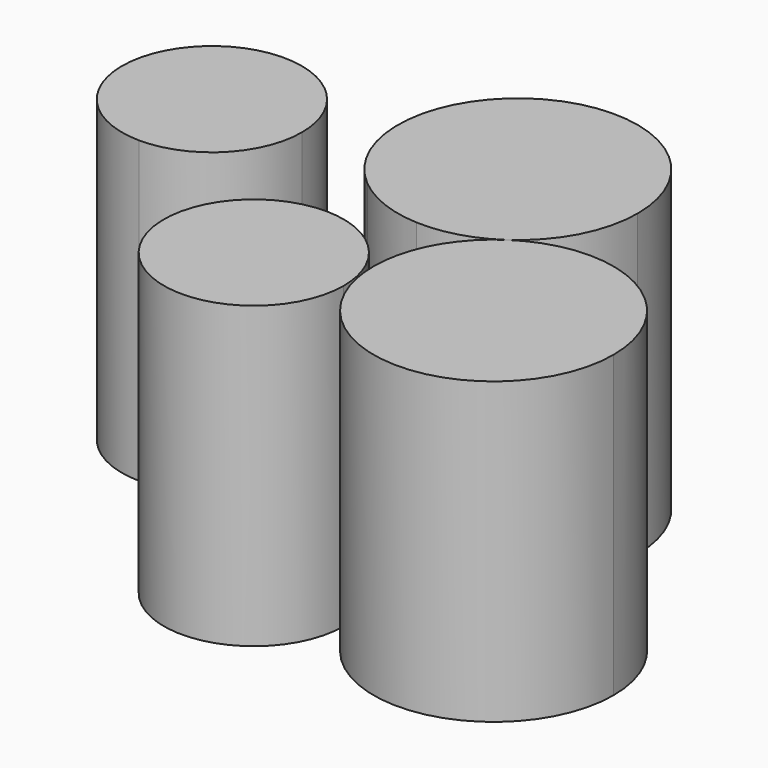
from build123d import *

# Parameters (mm, degrees)
F1_DEPTH = 10


with BuildPart() as f1:
    # F0 (on Top) → F1 (new body)
    with BuildSketch(Plane.XY):
        with BuildLine():
            ThreePointArc((-6.536943, 5.410026), (-9.232411, 5.994956), (-11.266234, 4.131824))
            ThreePointArc((-11.266234, 4.131824), (-10.919221, 1.395535), (-8.484703, 0.099072))
            ThreePointArc((-8.484703, 0.099072), (-6.340776, 0.965199), (-5.449676, 3.098868))
            ThreePointArc((-5.449676, 3.098868), (-5.735067, 4.375935), (-6.536943, 5.410026))
        make_face()
        with BuildLine():
            ThreePointArc((-2.311158, 1.912733), (-1.205815, 1.264389), (0.04783, 0.998855))
            Line((0.04783, 0.998855), (0.239152, 4.994277))
            Line((0.239152, 4.994277), (-2.311158, 1.912733))
        make_face()
        with BuildLine():
            ThreePointArc((0.04783, 0.998855), (1.321112, 1.143386), (2.483348, 1.683147))
            ThreePointArc((2.483348, 1.683147), (3.773044, 3.120349), (4.239152, 4.994277))
            ThreePointArc((4.239152, 4.994277), (-1.463604, 8.613755), (-2.311158, 1.912733))
            Line((-2.311158, 1.912733), (0.239152, 4.994277))
            Line((0.239152, 4.994277), (0.04783, 0.998855))
        make_face()
        with BuildLine():
            ThreePointArc((8.727544, -1.627984), (6.601472, 1.905908), (2.483348, 1.683147))
            ThreePointArc((2.483348, 1.683147), (1.551441, 0.803553), (0.945509, -0.325597))
            ThreePointArc((0.945509, -0.325597), (0.727739, -1.588415), (0.920483, -2.855295))
            ThreePointArc((0.920483, -2.855295), (5.348736, -5.579455), (8.727544, -1.627984))
        make_face()
        with BuildLine():
            ThreePointArc((0.806905, -2.974597), (0.770508, -2.508703), (0.6622, -2.054113))
            ThreePointArc((0.6622, -2.054113), (-0.412821, -0.559928), (-2.158068, 0.025199))
            ThreePointArc((-2.158068, 0.025199), (-4.326763, -5.083497), (0.806905, -2.974597))
        make_face()
    extrude(amount=F1_DEPTH)


solid = f1.part
